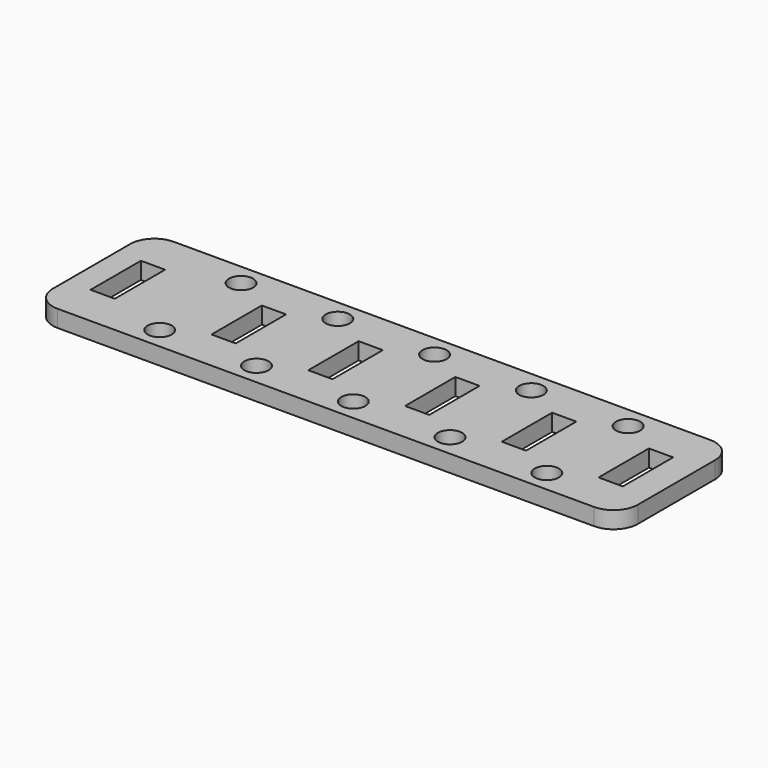
from build123d import *

# Parameters (mm, degrees)
F0_R     = 2.5
F0_W     = 5
F0_H     = 13
F1_DEPTH = 3.5


with BuildPart() as f1:
    # F0 (on Top) → F1 (new body)
    with BuildSketch(Plane.XY):
        with BuildLine():
            ThreePointArc((0, -5), (-1.464466, -1.464466), (-5, 0))
            Line((-5, 0), (-115.9, 0))
            ThreePointArc((-115.9, 0), (-119.435534, -1.464466), (-120.9, -5))
            Line((-120.9, -5), (-120.9, -25))
            ThreePointArc((-120.9, -25), (-119.435534, -28.535534), (-115.9, -30))
            Line((-115.9, -30), (-5, -30))
            ThreePointArc((-5, -30), (-1.464466, -28.535534), (0, -25))
            Line((0, -25), (0, -5))
        make_face()
        with Locations((-98.4, -25.5)):
            Circle(F0_R, mode=Mode.SUBTRACT)
        with Locations((-78.4, -25.5)):
            Circle(F0_R, mode=Mode.SUBTRACT)
        with Locations((-113.4, -15)):
            Rectangle(F0_W, F0_H, mode=Mode.SUBTRACT)
        with Locations((-88.4, -15)):
            Rectangle(F0_W, F0_H, mode=Mode.SUBTRACT)
        with Locations((-68.4, -15)):
            Rectangle(F0_W, F0_H, mode=Mode.SUBTRACT)
        with Locations((-58.4, -25.5)):
            Circle(F0_R, mode=Mode.SUBTRACT)
        with Locations((-38.4, -25.5)):
            Circle(F0_R, mode=Mode.SUBTRACT)
        with Locations((-18.4, -25.5)):
            Circle(F0_R, mode=Mode.SUBTRACT)
        with Locations((-48.4, -15)):
            Rectangle(F0_W, F0_H, mode=Mode.SUBTRACT)
        with Locations((-28.4, -15)):
            Rectangle(F0_W, F0_H, mode=Mode.SUBTRACT)
        with Locations((-8.4, -15)):
            Rectangle(F0_W, F0_H, mode=Mode.SUBTRACT)
        with Locations((-98.4, -4.5)):
            Circle(F0_R, mode=Mode.SUBTRACT)
        with Locations((-78.4, -4.5)):
            Circle(F0_R, mode=Mode.SUBTRACT)
        with Locations((-58.4, -4.5)):
            Circle(F0_R, mode=Mode.SUBTRACT)
        with Locations((-38.4, -4.5)):
            Circle(F0_R, mode=Mode.SUBTRACT)
        with Locations((-18.4, -4.5)):
            Circle(F0_R, mode=Mode.SUBTRACT)
    extrude(amount=F1_DEPTH)


solid = f1.part
